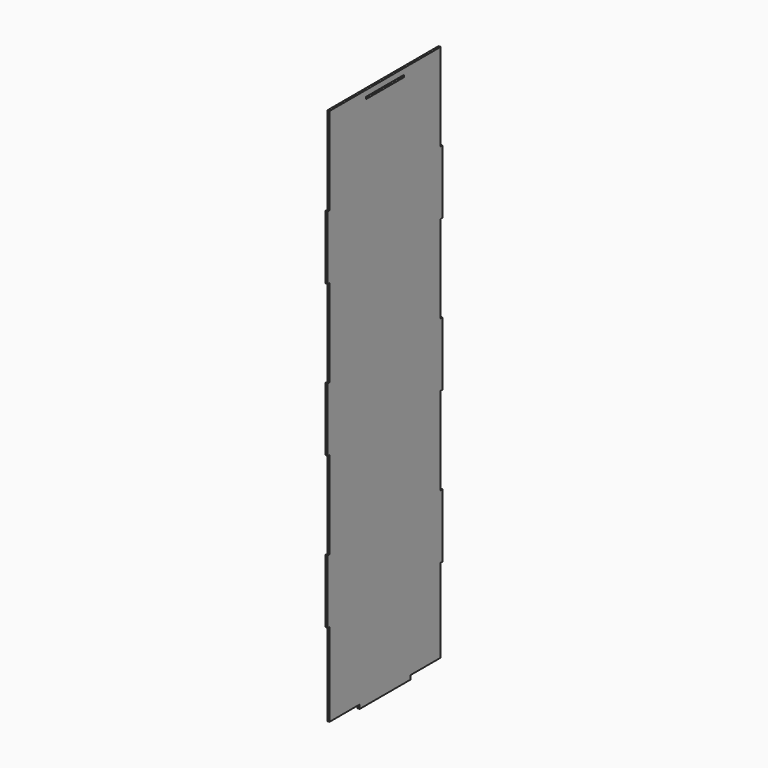
from build123d import *

# Parameters (mm, degrees)
F0_W     = 76.2
F0_H     = 3.4163
F1_DEPTH = 3.4163


with BuildPart() as f1:
    # F0 (on Right) → F1 (new body)
    with BuildSketch(Plane.YZ):
        Polygon((-50.8, 0), (-50.8, -6.35), (50.8, -6.35), (50.8, 0), (110.8837, 0), (110.8837, 133.35), (114.3, 133.35), (114.3, 234.95), (110.8837, 234.95), (110.8837, 374.65), (114.3, 374.65), (114.3, 476.25), (110.8837, 476.25), (110.8837, 615.95), (114.3, 615.95), (114.3, 717.55), (110.8837, 717.55), (110.8837, 857.25), (38.1, 857.25), (-38.1, 857.25), (-110.8837, 857.25), (-110.8837, 717.55), (-114.3, 717.55), (-114.3, 615.95), (-110.8837, 615.95), (-110.8837, 476.25), (-114.3, 476.25), (-114.3, 374.65), (-110.8837, 374.65), (-110.8837, 234.95), (-114.3, 234.95), (-114.3, 133.35), (-110.8837, 133.35), (-110.8837, 0), align=None)
        with Locations((0, 846.01685)):
            Rectangle(F0_W, F0_H, mode=Mode.SUBTRACT)
    extrude(amount=F1_DEPTH)


solid = f1.part
